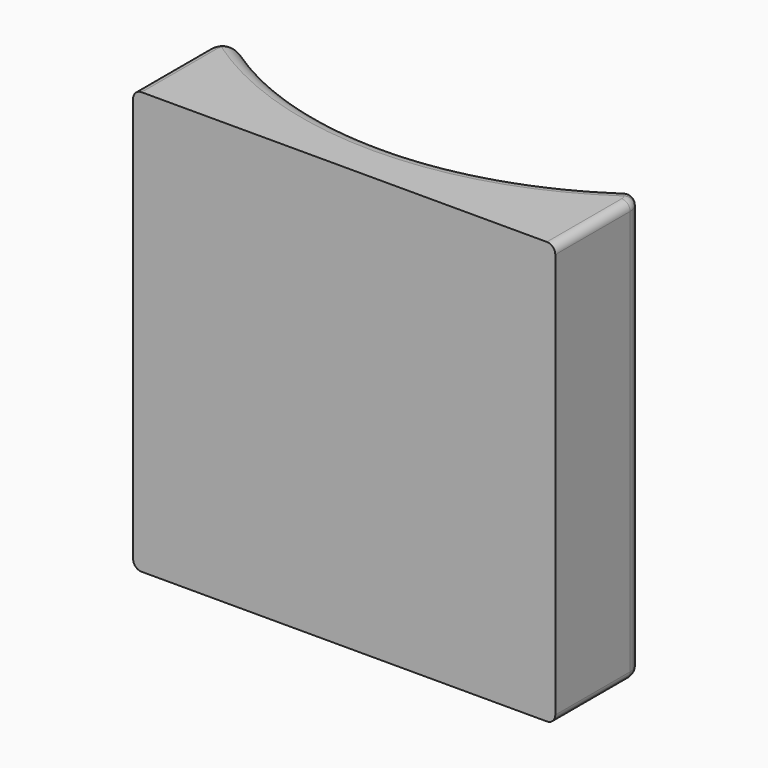
from build123d import *

# Parameters (mm, degrees)
PAD_DEPTH   = 50
FILLET_R    = 2
FILLET001_R = 1


with BuildPart() as part:
    # Sketch → Pad (new body)
    with BuildSketch(Plane.XY):
        with BuildLine():
            Line((-25, -15), (25, -15))
            Line((25, -15), (25, 0))
            ThreePointArc((-25, 0), (0, -8.77501), (25, 0))
            Line((-25, -15), (-25, 0))
        make_face()
    extrude(amount=PAD_DEPTH)

    # Fillet
    fillet_edges = [part.edges().sort_by_distance(p)[0] for p in [
        (-25, 0, 25),
        (25, 0, 25),
        (0, -8.77501, 0),
        (0, -8.77501, 50),
    ]]
    fillet(fillet_edges, radius=FILLET_R)

    # Fillet001
    fillet001_edges = [part.edges().sort_by_distance(p)[0] for p in [
        (25, -9.458788, 50),
        (25, -9.458788, 0),
        (-25, -9.458788, 50),
        (-25, -9.458788, 0),
    ]]
    fillet(fillet001_edges, radius=FILLET001_R)


solid = part.part
